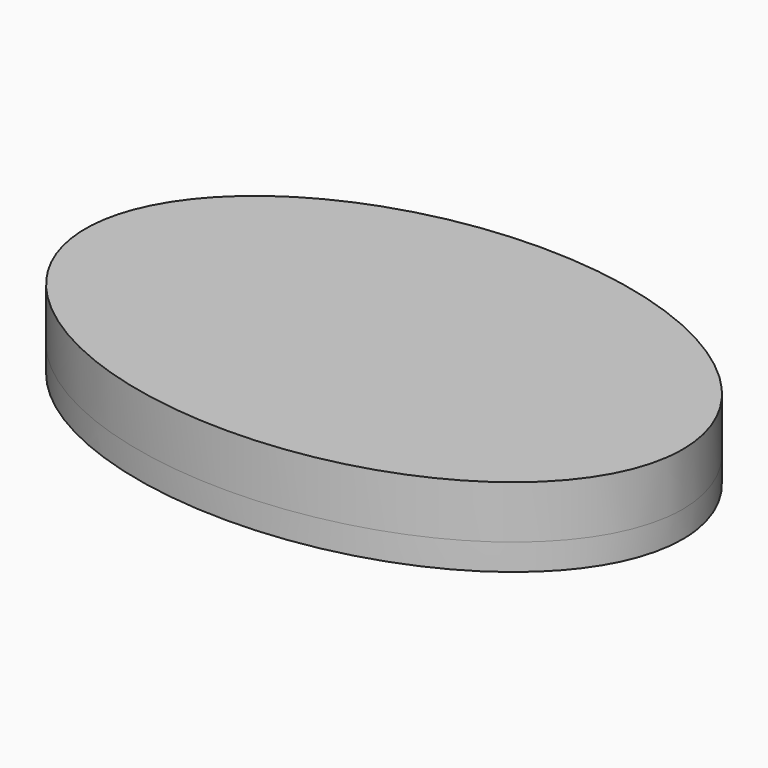
from build123d import *

# Parameters (mm, degrees)
PAD_DEPTH       = 6
POCKET_DEPTH    = 3
PAD001_DEPTH    = 3
SKETCH003_W     = 56
SKETCH003_H     = 3
POCKET001_DEPTH = 3


with BuildPart() as part:
    # Sketch → Pad (new body)
    with BuildSketch(Plane.XY):
        with BuildLine():
            add(Edge.make_bspline(
                [(34, 0), (34, 38.971143), (-17, 19.485572), (-68, 0), (-17, -19.485572), (34, -38.971143), (34, 0)],
                knots=[0, 0, 0, 2.094395, 2.094395, 4.18879, 4.18879, 6.283185, 6.283185, 6.283185], degree=2, weights=[1, 0.5, 1, 0.5, 1, 0.5, 1]))
        make_face()
    extrude(amount=PAD_DEPTH)

    # Sketch001 (on Face2 of Pad) → Pocket (cut)
    with BuildSketch(Plane(origin=(0, 0, 0), x_dir=(1, 0, 0), z_dir=(0, 0, -1))):
        Polygon((9.775, -3.450064), (9.775, -21.550064), (-9.775, -21.550064), (-9.775, -3.450064), (-28.5, -3.450064), (-28.5, 8.549936), (28.5, 8.549936), (28.5, -3.450064), align=None)
    extrude(amount=-POCKET_DEPTH, mode=Mode.SUBTRACT)

    # Sketch002 (on Face2 of Pocket) → Pad001 (join)
    with BuildSketch(Plane(origin=(0, 0, 0), x_dir=(1, 0, 0), z_dir=(0, 0, -1))):
        with BuildLine():
            add(Edge.make_bspline(
                [(34, 0), (34, 38.971143), (-17, 19.485572), (-68, 0), (-17, -19.485572), (34, -38.971143), (34, 0)],
                knots=[0, 0, 0, 2.094395, 2.094395, 4.18879, 4.18879, 6.283185, 6.283185, 6.283185], degree=2, weights=[1, 0.5, 1, 0.5, 1, 0.5, 1]))
        make_face()
    extrude(amount=PAD001_DEPTH)

    # Sketch003 (on Face4 of Pad001) → Pocket001 (cut)
    with BuildSketch(Plane(origin=(0, 0, -3), x_dir=(1, 0, 0), z_dir=(0, 0, -1))):
        with Locations((0, 2.549936)):
            Rectangle(SKETCH003_W, SKETCH003_H)
    extrude(amount=-POCKET001_DEPTH, mode=Mode.SUBTRACT)


solid = part.part
